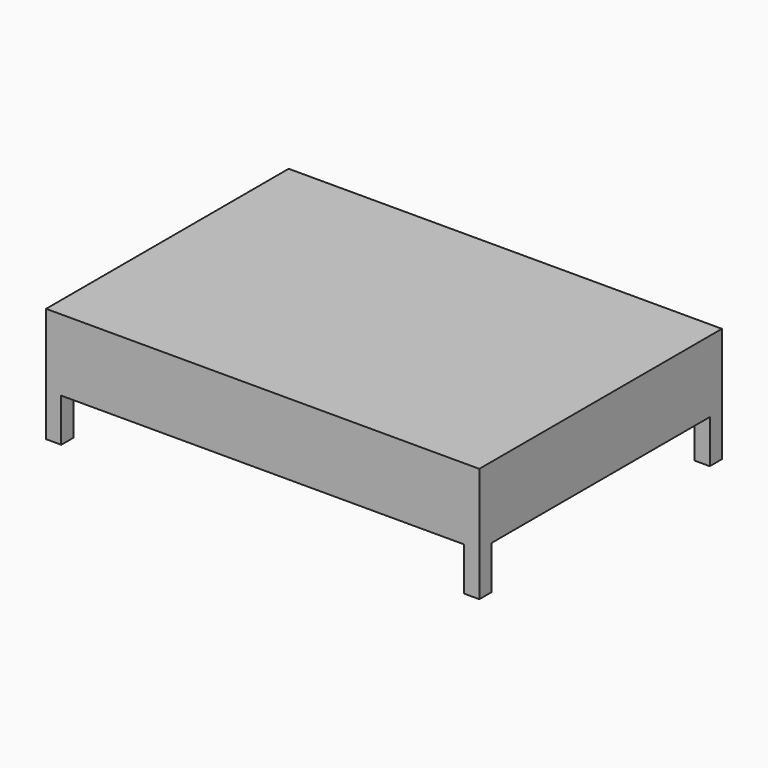
from build123d import *

# Parameters (mm, degrees)
F2_W     = 2000
F2_H     = 1400
F3_DEPTH = 330
F4_W     = 70
F4_H     = 70
F5_DEPTH = 200


with BuildPart() as f3:
    # F2 (on offset) → F3 (new body, through all)
    with BuildSketch(Plane.XY.offset(200)):
        with Locations((1000, 700)):
            Rectangle(F2_W, F2_H)
    extrude(amount=F3_DEPTH)

    # F4 (on Top) → F5 (join, through all)
    with BuildSketch(Plane.XY):
        with Locations((35, 35)):
            Rectangle(F4_W, F4_H)
        with Locations((1965, 35)):
            Rectangle(F4_W, F4_H)
        with Locations((1965, 1365)):
            Rectangle(F4_W, F4_H)
        with Locations((35, 1365)):
            Rectangle(F4_W, F4_H)
    extrude(amount=F5_DEPTH)


solid = f3.part
